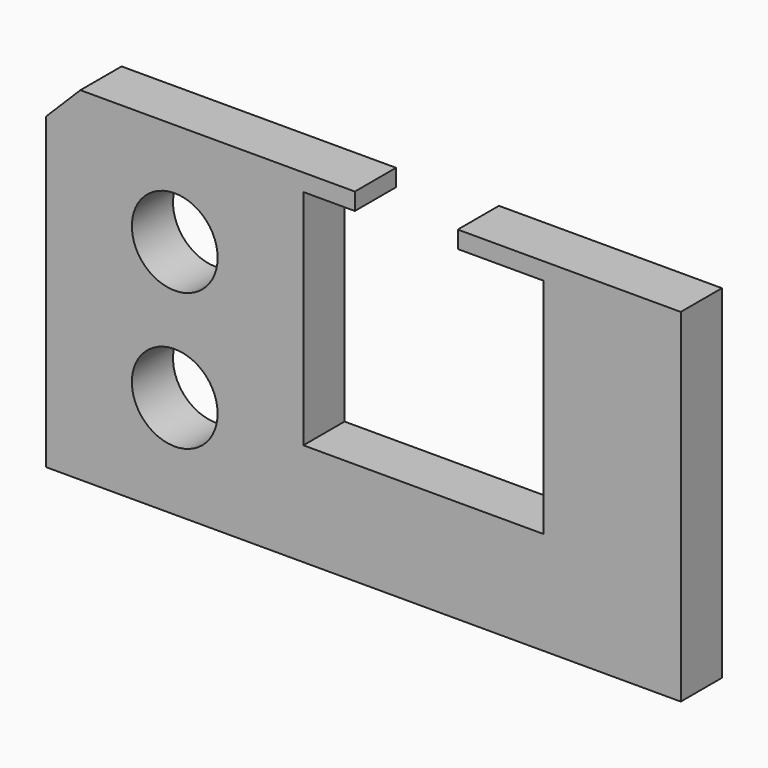
from build123d import *

# Parameters (mm, degrees)
F0_R     = 2.5
F1_DEPTH = 3


with BuildPart() as f1:
    # F0 (on Front) → F1 (new body)
    with BuildSketch(Plane.XZ):
        Polygon((4.89283, 12.336053), (-11.10717, 12.336053), (-13.10717, 10.336053), (-13.10717, -7.663947), (23.89283, -7.663947), (23.89283, 12.336053), (10.89283, 12.336053), (10.89283, 11.336053), (15.89283, 11.336053), (15.89283, -1.663947), (1.89283, -1.663947), (1.89283, 11.336053), (4.89283, 11.336053), align=None)
        with Locations((-5.60717, -1.663947)):
            Circle(F0_R, mode=Mode.SUBTRACT)
        with Locations((-5.60717, 6.336053)):
            Circle(F0_R, mode=Mode.SUBTRACT)
    extrude(amount=F1_DEPTH)


solid = f1.part
